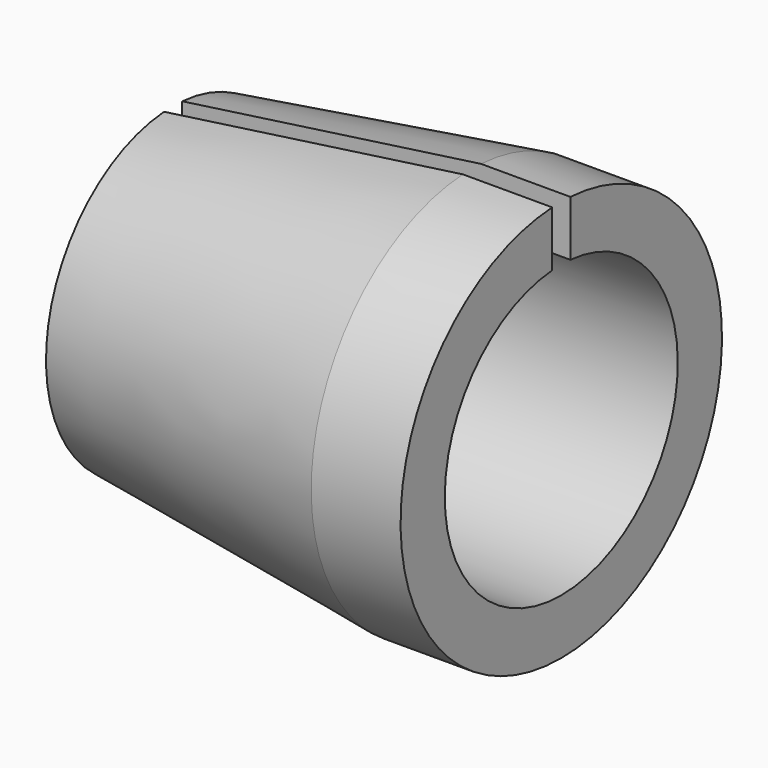
from build123d import *

# Parameters (mm, degrees)
F2_W     = 1
F2_H     = 11.174016
F3_DEPTH = 17.101


with BuildPart() as f1:
    # F0 (on Front) → F1 (revolve)
    with BuildSketch(Plane.XZ):
        Polygon((0, 7), (0, 6.414), (17.1, 6.414), (17.1, 8.85), (13.163434, 8.85), align=None)
    revolve(axis=Axis((13.569317, 0, 0), (1, 0, 0)))

    # F2 (on face) → F3 (cut, through all)
    with BuildSketch(Plane.YZ.offset(17.1)):
        with Locations((0, 5.587008)):
            Rectangle(F2_W, F2_H)
    extrude(amount=-F3_DEPTH, mode=Mode.SUBTRACT)


solid = f1.part
